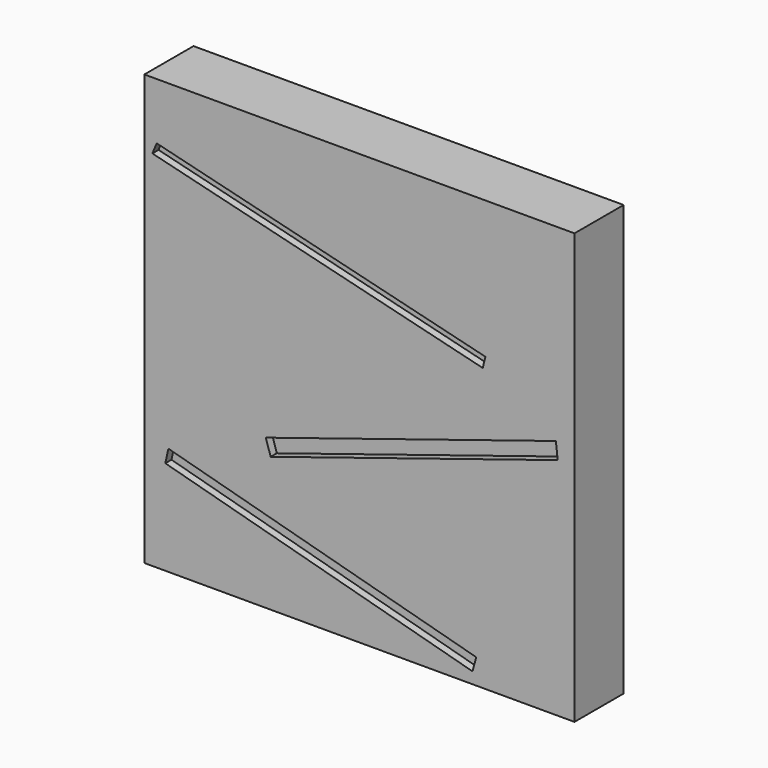
from build123d import *

# Parameters (mm, degrees)
F0_W     = 355.6
F0_H     = 355.6
F1_DEPTH = 50.8
F3_DEPTH = 6.35
F4_DEPTH = 6.35


with BuildPart() as f1:
    # F0 (on Front) → F1 (new body)
    with BuildSketch(Plane.XZ):
        Rectangle(F0_W, F0_H)
    extrude(amount=F1_DEPTH)

    # F2 (on face) → F3 (cut)
    with BuildSketch(Plane.XZ.offset(50.8)):
        Polygon((-167.600538, 131.020906), (-171.194881, 122.465245), (101.947516, 55.141423), (104.141387, 64.042271), align=None)
        Polygon((-77.381766, -53.872798), (-73.398896, -66.51783), (163.904211, 8.226743), (162.432873, 21.662845), align=None)
        Polygon((96.553348, -157.102942), (-157.932714, -88.089772), (-160.472856, -99.545852), (93.485428, -168.415896), align=None)
    extrude(amount=-F3_DEPTH, mode=Mode.SUBTRACT)

    # F2 (on face) → F4 (cut)
    with BuildSketch(Plane.XZ.offset(50.8)):
        Polygon((-167.600538, 131.020906), (-171.194881, 122.465245), (101.947516, 55.141423), (104.141387, 64.042271), align=None)
        Polygon((-77.381766, -53.872798), (-73.398896, -66.51783), (163.904211, 8.226743), (162.432873, 21.662845), align=None)
        Polygon((96.553348, -157.102942), (-157.932714, -88.089772), (-160.472856, -99.545852), (93.485428, -168.415896), align=None)
    extrude(amount=-F4_DEPTH, mode=Mode.SUBTRACT)


solid = f1.part
